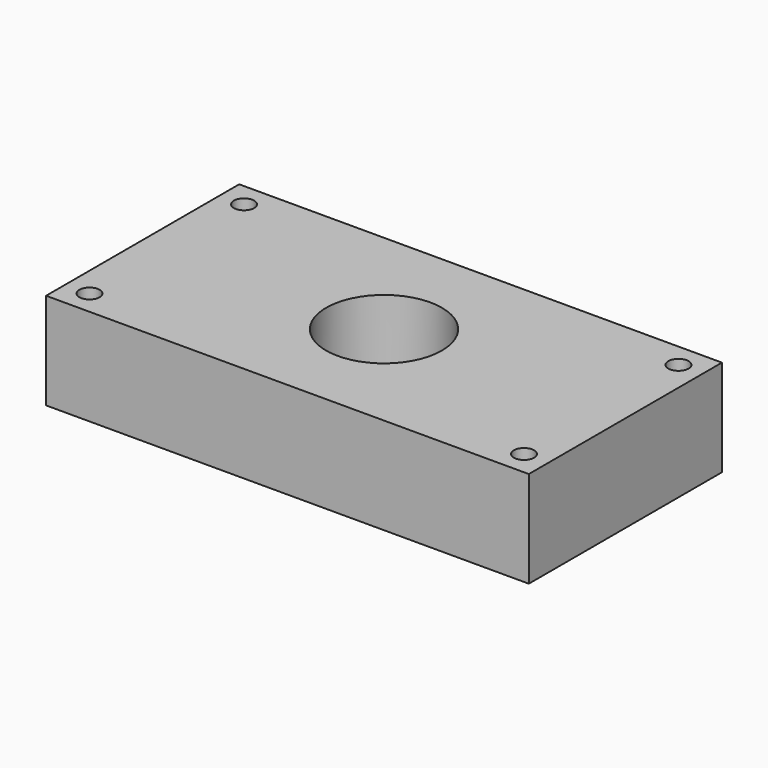
from build123d import *

# Parameters (mm, degrees)
F0_W     = 100
F0_H     = 50
F0_R     = 2.1
F0_R_2   = 12
F1_DEPTH = 20


with BuildPart() as f1:
    # F0 (on Top) → F1 (new body)
    with BuildSketch(Plane.XY):
        with Locations((17.928591, 20)):
            Rectangle(F0_W, F0_H)
        with Locations((-27.071409, 0)):
            Circle(F0_R, mode=Mode.SUBTRACT)
        with Locations((62.928591, 0)):
            Circle(F0_R, mode=Mode.SUBTRACT)
        with Locations((-27.071409, 40)):
            Circle(F0_R, mode=Mode.SUBTRACT)
        with Locations((17.928591, 20)):
            Circle(F0_R_2, mode=Mode.SUBTRACT)
        with Locations((62.928591, 40)):
            Circle(F0_R, mode=Mode.SUBTRACT)
    extrude(amount=F1_DEPTH)


solid = f1.part
